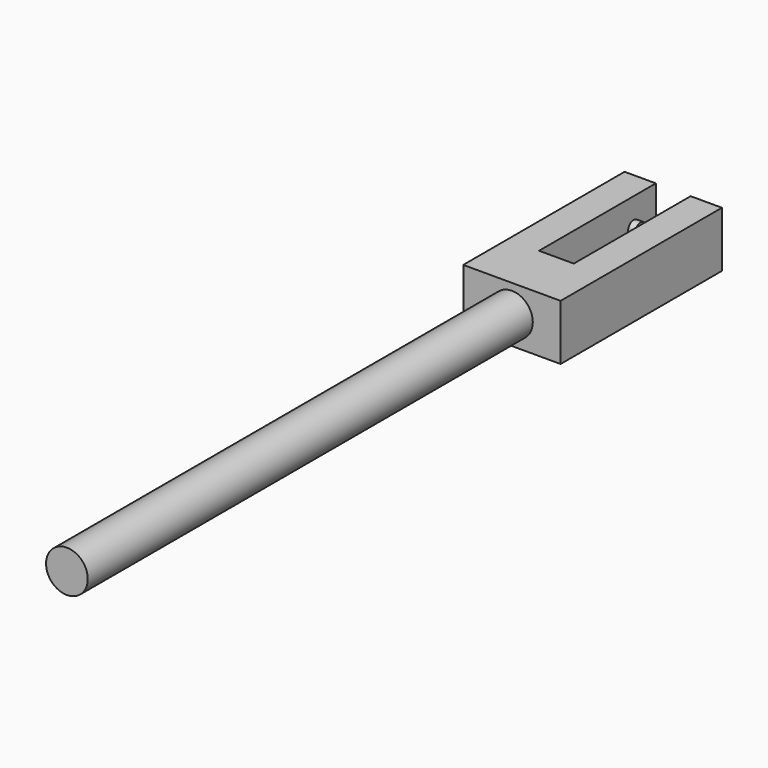
from build123d import *

# Parameters (mm, degrees)
F0_R     = 4.7625
F1_DEPTH = 127
F2_W     = 22.225
F2_H     = 12.7
F3_DEPTH = 46.0375
F4_W     = 7.9375
F4_H     = 12.7
F5_DEPTH = 33.3375
F6_R     = 1.5875
F7_DEPTH = 1.59258


with BuildPart() as f1:
    # F0 (on Front) → F1 (new body)
    with BuildSketch(Plane.XZ):
        Circle(F0_R)
    extrude(amount=F1_DEPTH)

    # F2 (on face) → F3 (join)
    with BuildSketch(Plane(origin=(0, 0, 0), x_dir=(-1, 0, 0), z_dir=(0, 1, 0))):
        Rectangle(F2_W, F2_H)
    extrude(amount=F3_DEPTH)

    # F4 (on face) → F5 (cut)
    with BuildSketch(Plane(origin=(0, 46.0375, 0), x_dir=(-1, 0, 0), z_dir=(0, 1, 0))):
        Rectangle(F4_W, F4_H)
    extrude(amount=-F5_DEPTH, mode=Mode.SUBTRACT)

    # F6 (on face) → F7 (join)
    with BuildSketch(Plane.YZ.offset(-3.96875)):
        with Locations((39.6875, 0)):
            Circle(F6_R)
    extrude(amount=F7_DEPTH)

    # F8: F1 across plane


with BuildPart() as f1_1:
    add(f1.part)
    add(f1.part.mirror(Plane.YZ))


solid = f1_1.part
